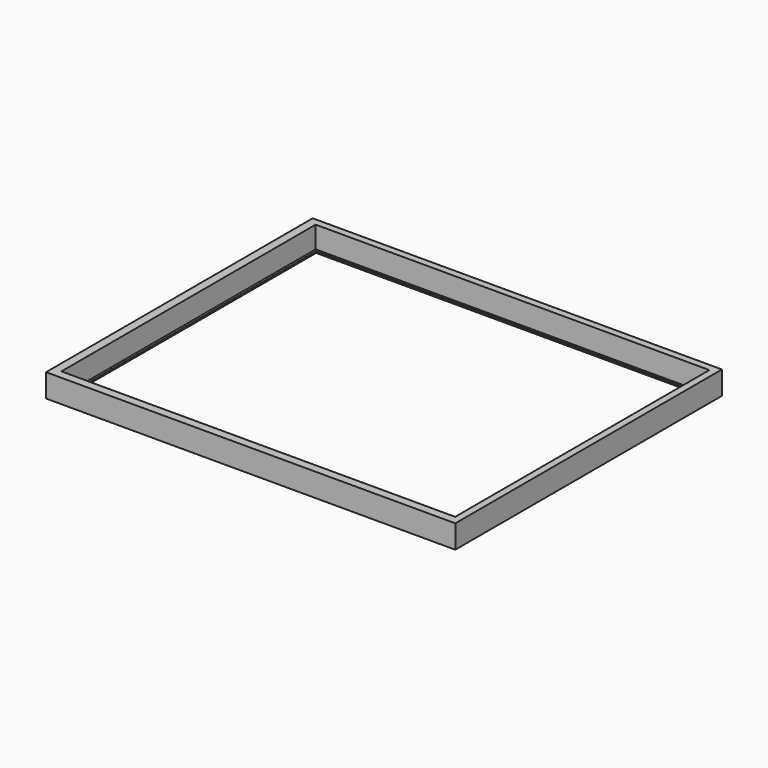
from build123d import *

# Parameters (mm, degrees)
BOX005_W     = 251
BOX005_H     = 202
BOX005_DEPTH = 1
BOX004_W     = 254
BOX004_H     = 205
BOX004_DEPTH = 16
BOX003_W     = 264
BOX003_H     = 215
BOX003_DEPTH = 15


with BuildPart() as framecutout2:
    # Box005 → Box005 (new body)
    with BuildSketch(Plane(origin=(7, 7, 0), x_dir=(1, 0, 0), z_dir=(0, 0, 1))):
        with Locations((125.5, 101)):
            Rectangle(BOX005_W, BOX005_H)
    extrude(amount=BOX005_DEPTH)


with BuildPart() as framecutout1:
    # Box004 → Box004 (new body)
    with BuildSketch(Plane(origin=(5.5, 5.5, 1), x_dir=(1, 0, 0), z_dir=(0, 0, 1))):
        with Locations((127, 102.5)):
            Rectangle(BOX004_W, BOX004_H)
    extrude(amount=BOX004_DEPTH)


with BuildPart() as frame_model:
    # Box003 → Box003 (new body)
    with BuildSketch(Plane.XY):
        with Locations((132, 107.5)):
            Rectangle(BOX003_W, BOX003_H)
    extrude(amount=BOX003_DEPTH)

    # Cut: cut FrameCutOut1
    add(framecutout1.part, mode=Mode.SUBTRACT)

    # Cut001: cut FrameCutOut2
    add(framecutout2.part, mode=Mode.SUBTRACT)


solid = frame_model.part
